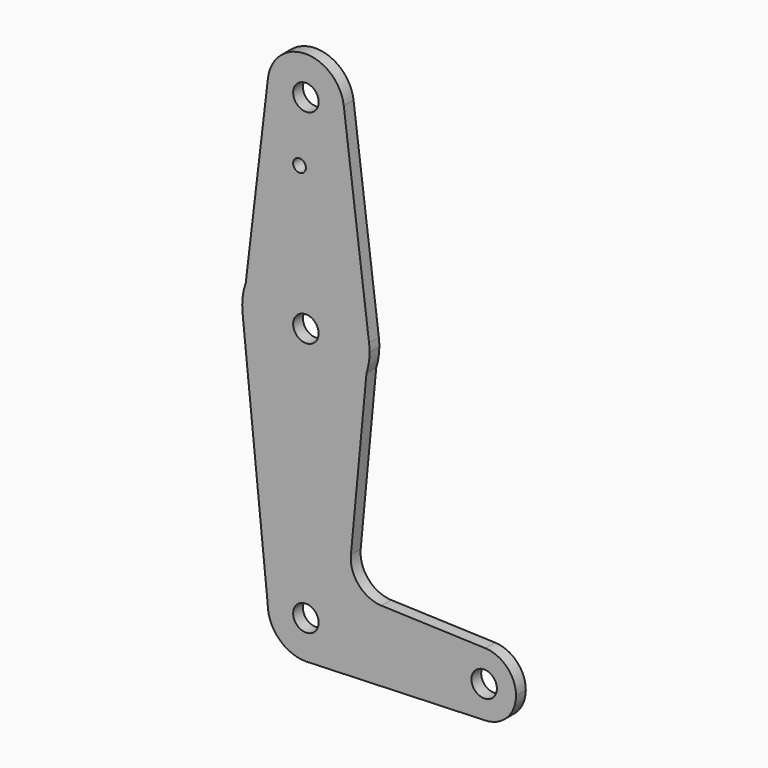
from build123d import *

# Parameters (mm, degrees)
F0_R     = 3.175
F0_R_2   = 1.5875
F1_DEPTH = 3.048


with BuildPart() as f1:
    # F0 (on Front) → F1 (new body)
    with BuildSketch(Plane.XZ):
        with BuildLine():
            ThreePointArc((-9.4589602313, 115.4196858236), (-0.5608158331, 104.7915242756), (9.525, 114.3))
            ThreePointArc((9.525, 114.3), (9.5063048942, 114.896483242), (9.4502929642, 115.490625))
            ThreePointArc((9.4502929642, 115.490625), (-0.0357333467, 123.8249329724), (-9.4589602313, 115.4196858236))
        make_face()
        with Locations((0, 114.3)):
            Circle(F0_R, mode=Mode.SUBTRACT)
        with BuildLine():
            ThreePointArc((9.4502929642, 115.490625), (9.5063048942, 114.896483242), (9.525, 114.3))
            ThreePointArc((9.525, 114.3), (-0.5608158331, 104.7915242756), (-9.4589602313, 115.4196858236))
            Line((-9.4589602313, 115.4196858236), (-14.9842264132, 68.7429556358))
            ThreePointArc((-14.9842264132, 68.7429556358), (1.6737312358, 79.2865211098), (15.7504882737, 65.484375))
            Line((15.7504882737, 65.484375), (9.4502929642, 115.490625))
        make_face()
        with Locations((-1.5875, 98.8080725074)):
            Circle(F0_R_2, mode=Mode.SUBTRACT)
        with BuildLine():
            Line((15.1007031189, 58.6026139305), (15.7504882737, 65.484375))
            ThreePointArc((15.7504882737, 65.484375), (1.6737312358, 79.2865211098), (-14.9842264132, 68.7429556358))
            Line((-14.9842264132, 68.7429556358), (-15.7942028036, 61.9003804205))
            ThreePointArc((-15.7942028036, 61.9003804205), (-1.6849484885, 47.7146722051), (15.1007031189, 58.6026139305))
        make_face()
        with Locations((0, 63.5)):
            Circle(F0_R, mode=Mode.SUBTRACT)
        with BuildLine():
            ThreePointArc((15.875, 63.5), (15.8438414904, 64.4941387366), (15.7504882737, 65.484375))
            Line((15.7504882737, 65.484375), (15.1007031189, 58.6026139305))
            ThreePointArc((15.1007031189, 58.6026139305), (15.6802309775, 61.020890988), (15.875, 63.5))
        make_face()
        with BuildLine():
            Line((-15.7942028036, 61.9003804205), (-14.9842264132, 68.7429556358))
            ThreePointArc((-14.9842264132, 68.7429556358), (-15.7649337188, 65.3661430393), (-15.7942028036, 61.9003804205))
        make_face()
        with BuildLine():
            Line((11.2241018594, 17.546207155), (15.1007031189, 58.6026139305))
            ThreePointArc((15.1007031189, 58.6026139305), (-1.6849484885, 47.7146722051), (-15.7942028036, 61.9003804205))
            Line((-15.7942028036, 61.9003804205), (-9.525, 0))
            ThreePointArc((-9.525, 0), (0, 9.525), (9.525, 0))
            ThreePointArc((9.525, 0), (6.9705567315, -6.4912990883), (0.6773435479, -9.500885786))
            Line((0.6773435479, -9.500885786), (44.7324052746, -7.9324746146))
            ThreePointArc((44.7324052746, -7.9324746146), (36.5125, 0), (44.7324052746, 7.9324746146))
            Line((44.7324052746, 7.9324746146), (18.8562403874, 8.8536960246))
            ThreePointArc((18.8562403874, 8.8536960246), (13.1648917084, 11.5534317224), (11.2241018594, 17.546207155))
        make_face()
        with BuildLine():
            ThreePointArc((9.525, 0), (0, 9.525), (-9.525, 0))
            ThreePointArc((-9.525, 0), (-6.7351920908, -6.7351920908), (0, -9.525))
            Line((0, -9.525), (0.6773435479, -9.500885786))
            ThreePointArc((0.6773435479, -9.500885786), (6.9705567315, -6.4912990883), (9.525, 0))
        make_face()
        Circle(F0_R, mode=Mode.SUBTRACT)
        with BuildLine():
            Line((0.6773435479, -9.500885786), (0, -9.525))
            ThreePointArc((0, -9.525), (0.3388863295, -9.5189695375), (0.6773435479, -9.500885786))
        make_face()
        with BuildLine():
            ThreePointArc((52.3875, 0), (50.1616327839, 5.5119104847), (44.7324052746, 7.9324746146))
            ThreePointArc((44.7324052746, 7.9324746146), (36.5125, 0), (44.7324052746, -7.9324746146))
            ThreePointArc((44.7324052746, -7.9324746146), (50.1616327839, -5.5119104847), (52.3875, 0))
        make_face()
        with Locations((44.45, 0)):
            Circle(F0_R, mode=Mode.SUBTRACT)
    extrude(amount=F1_DEPTH)


solid = f1.part
